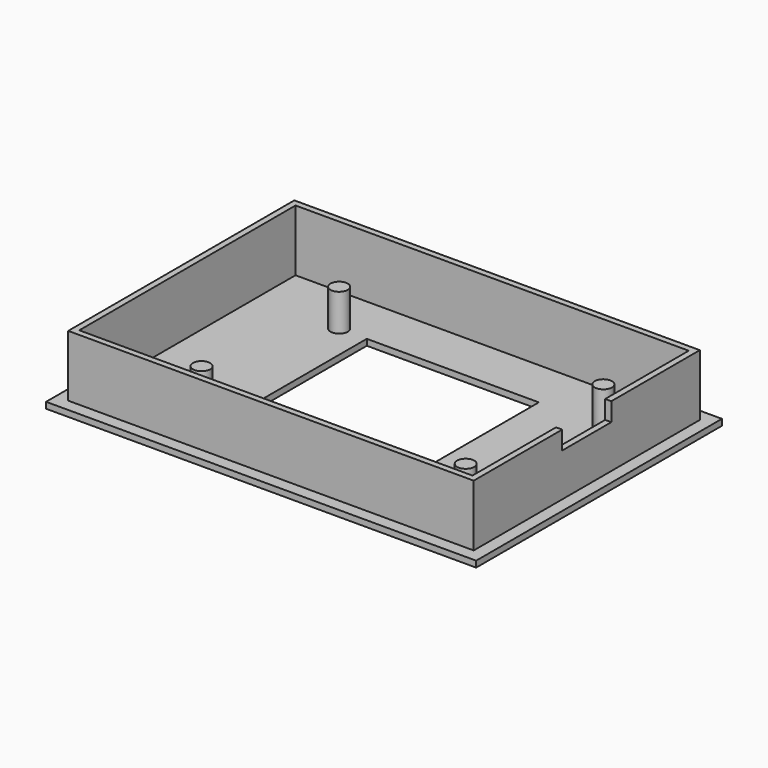
from build123d import *

# Parameters (mm, degrees)
SKETCH005_W   = 70
SKETCH005_H   = 50
SKETCH005_W_2 = 28
SKETCH005_H_2 = 28
PAD_DEPTH     = 1
SKETCH006_R   = 1.4
PAD001_DEPTH  = 6
SKETCH007_W   = 66
SKETCH007_H   = 46
SKETCH007_W_2 = 64
SKETCH007_H_2 = 44
PAD002_DEPTH  = 10
SKETCH008_W   = 10
SKETCH008_H   = 3
POCKET_DEPTH  = 5


with BuildPart() as part:
    # Sketch005 → Pad (new body)
    with BuildSketch(Plane.XY):
        with Locations((35, 25)):
            Rectangle(SKETCH005_W, SKETCH005_H)
        with Locations((35, 25)):
            Rectangle(SKETCH005_W_2, SKETCH005_H_2, mode=Mode.SUBTRACT)
    extrude(amount=PAD_DEPTH)

    # Sketch006 → Pad001 (join)
    with BuildSketch(Plane.XY.offset(1)):
        with Locations((16.5, 39)):
            Circle(SKETCH006_R)
        with Locations((59.5, 39)):
            Circle(SKETCH006_R)
        with Locations((59.5, 11)):
            Circle(SKETCH006_R)
        with Locations((16.5, 11)):
            Circle(SKETCH006_R)
    extrude(amount=PAD001_DEPTH)

    # Sketch007 → Pad002 (join)
    with BuildSketch(Plane.XY.offset(1)):
        with Locations((35, 25)):
            Rectangle(SKETCH007_W, SKETCH007_H)
        with Locations((35, 25)):
            Rectangle(SKETCH007_W_2, SKETCH007_H_2, mode=Mode.SUBTRACT)
    extrude(amount=PAD002_DEPTH)

    # Sketch008 (on Face13 of Pad002) → Pocket (cut)
    with BuildSketch(Plane.YZ.offset(68)):
        with Locations((25, 9.5)):
            Rectangle(SKETCH008_W, SKETCH008_H)
    extrude(amount=-POCKET_DEPTH, mode=Mode.SUBTRACT)


solid = part.part
